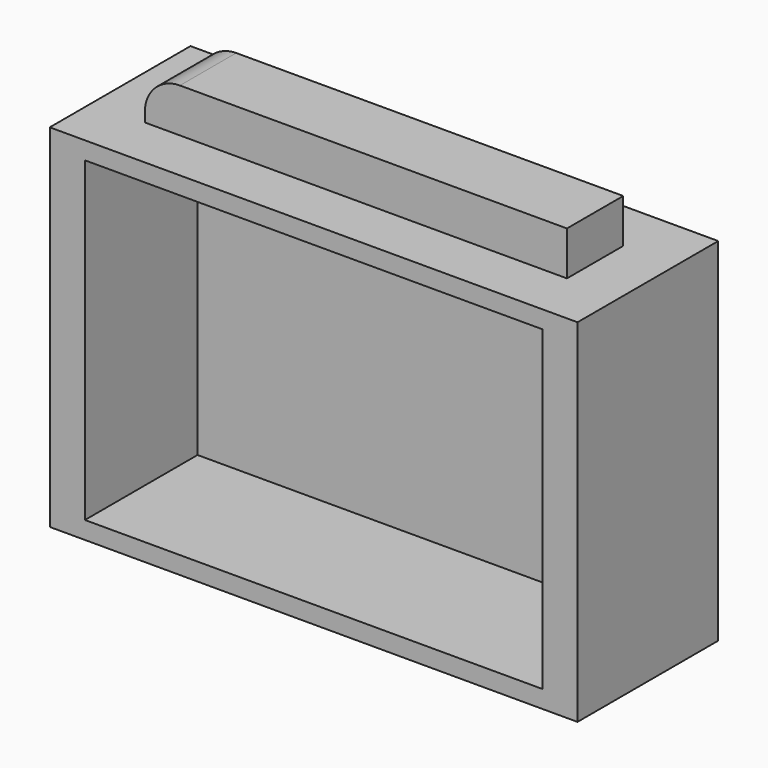
from build123d import *

# Parameters (mm, degrees)
F0_W          = 76.2
F0_H          = 50.8
F1_DEPTH      = 25.4
F2_W          = 66.04
F2_H          = 45.72
F3_DEPTH      = 20.32
F3_DEPTH_BACK = 25.4
F4_W          = 60.9600003704
F4_H          = 10.1600003704
F5_DEPTH      = 6.35
F6_R          = 5.08


with BuildPart() as f1:
    # F0 (on Front) → F1 (new body)
    with BuildSketch(Plane.XZ):
        Rectangle(F0_W, F0_H)
    extrude(amount=F1_DEPTH)

    # F2 (on face) → F3 (cut, two sides)
    with BuildSketch(Plane.XZ.offset(25.4)) as f3_sk:
        Rectangle(F2_W, F2_H)
    extrude(amount=-F3_DEPTH, mode=Mode.SUBTRACT)
    extrude(f3_sk.sketch, amount=F3_DEPTH_BACK, mode=Mode.SUBTRACT)

    # F4 (on face) → F5 (join)
    with BuildSketch(Plane.XY.offset(25.4)):
        with Locations((0, -12.7)):
            Rectangle(F4_W, F4_H)
    extrude(amount=F5_DEPTH)

    # F6
    f6_edges = [f1.edges().sort_by_distance(p)[0] for p in [
        (-30.48, -12.7, 31.75),
    ]]
    fillet(f6_edges, radius=F6_R)


solid = f1.part
